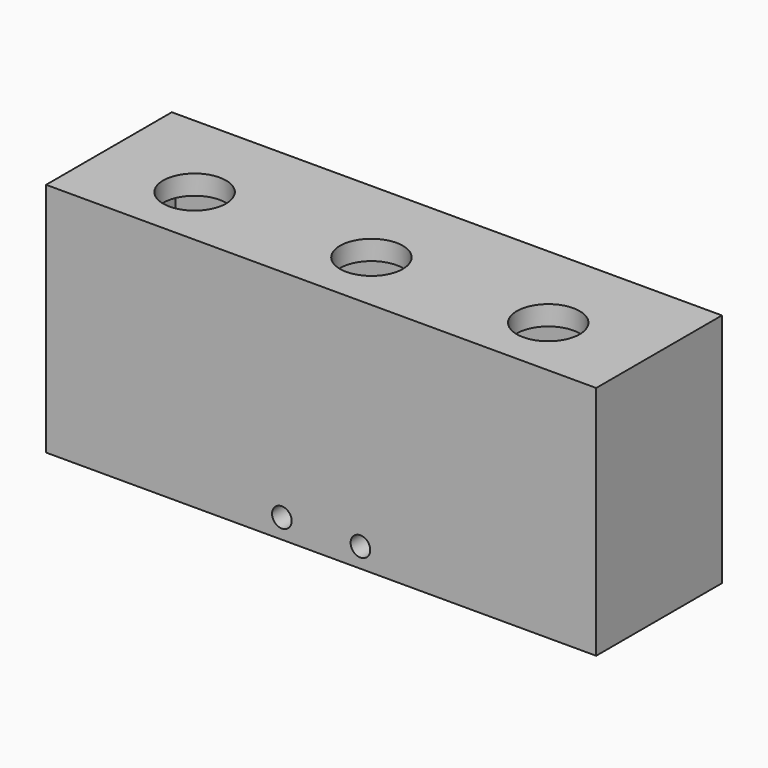
from build123d import *

# Parameters (mm, degrees)
F0_W     = 140
F0_H     = 40
F0_R     = 8
F1_DEPTH = 5
F2_W     = 140
F2_H     = 5
F3_DEPTH = 55
F4_W     = 5
F4_H     = 30
F5_DEPTH = 55
F6_R     = 2.5
F7_DEPTH = 60


with BuildPart() as f1:
    # F0 (on Top) → F1 (new body)
    with BuildSketch(Plane.XY):
        Rectangle(F0_W, F0_H)
        with Locations((-45, -4)):
            Circle(F0_R, mode=Mode.SUBTRACT)
        with Locations((0, -4)):
            Circle(F0_R, mode=Mode.SUBTRACT)
        with Locations((45, -4)):
            Circle(F0_R, mode=Mode.SUBTRACT)
    extrude(amount=F1_DEPTH)

    # F2 (on face) → F3 (join)
    with BuildSketch(Plane(origin=(0, 0, 0), x_dir=(1, 0, 0), z_dir=(0, 0, -1))):
        with Locations((0, 17.5)):
            Rectangle(F2_W, F2_H)
        with Locations((0, -17.5)):
            Rectangle(F2_W, F2_H)
    extrude(amount=F3_DEPTH)

    # F4 (on face) → F5 (join)
    with BuildSketch(Plane(origin=(0, 0, 0), x_dir=(1, 0, 0), z_dir=(0, 0, -1))):
        with Locations((-67.5, 0)):
            Rectangle(F4_W, F4_H)
        with Locations((67.5, 0)):
            Rectangle(F4_W, F4_H)
    extrude(amount=F5_DEPTH)

    # F6 (on face) → F7 (cut)
    with BuildSketch(Plane.XZ.offset(20)):
        with Locations((10, -50)):
            Circle(F6_R)
        with Locations((-10, -50)):
            Circle(F6_R)
    extrude(amount=-F7_DEPTH, mode=Mode.SUBTRACT)


solid = f1.part
